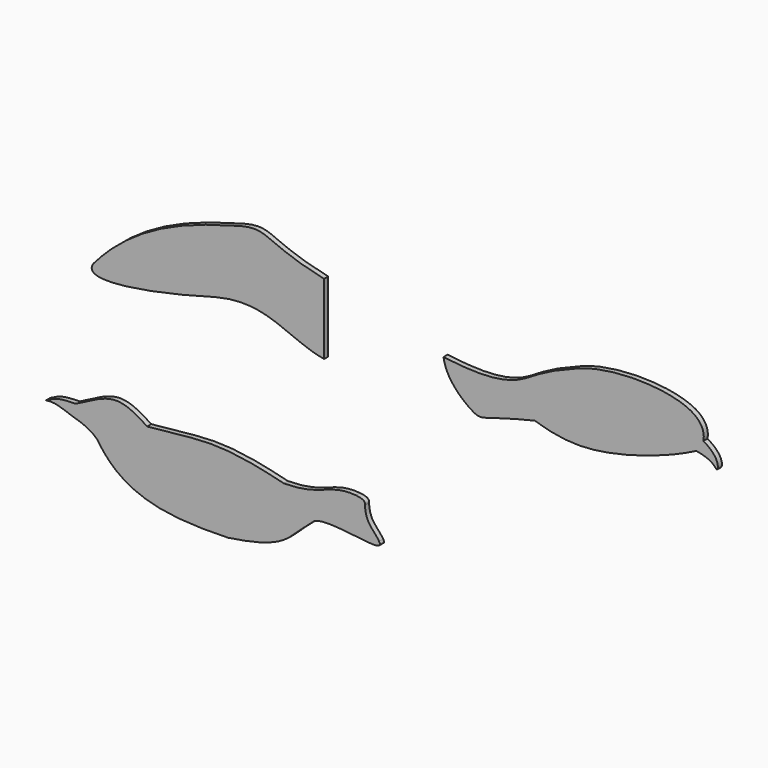
from build123d import *

# Parameters (mm, degrees)
F1_DEPTH = 2
F2_DEPTH = 2
F3_DEPTH = 2


with BuildPart() as f1:
    # F0 (on Front) → F1 (new body)
    with BuildSketch(Plane.XZ):
        with BuildLine():
            add(Edge.make_bspline(
                [(18.8231425051, 72.8964428303), (19.8808436069, 65.3788038107), (34.7370776251, 53.7829384898), (33.5673388016, 57.6980862061), (54.4126917131, 62.6002282298)],
                knots=[0, 0, 0, 0, 0.4666218102, 1, 1, 1, 1], degree=3))
            add(Edge.make_bspline(
                [(54.4126917131, 62.6002282298), (65.8990881443, 58.8808907475), (83.7409495409, 59.5425556906), (106.919003505, 67.2676650688), (117.4929710335, 72.7085880731)],
                knots=[0, 0, 0, 0, 0.4793578106, 1, 1, 1, 1], degree=3))
            add(Edge.make_bspline(
                [(117.4929710335, 72.7085880731), (124.8398352237, 71.5507546419), (125.3568491925, 65.4595539697), (126.8634894168, 73.1862400584), (120.2690540196, 77.0300564117)],
                knots=[0, 0, 0, 0, 0.4896589483, 1, 1, 1, 1], degree=3))
            add(Edge.make_bspline(
                [(120.2690540196, 77.0300564117), (120.8694055814, 79.9586893693), (117.3485005207, 90.5158551947), (83.9879186797, 91.2811061004), (70.6700533378, 85.7948111885)],
                knots=[0, 0, 0, 0, 0.3189288468, 1, 1, 1, 1], degree=3))
            add(Edge.make_bspline(
                [(70.6700533378, 85.7948111885), (57.1444968179, 80.7355256917), (50.9577782702, 74.2254984537), (36.1678127727, 70.6001524196), (18.8231425051, 72.8964428303)],
                knots=[0, 0, 0, 0, 0.4672077511, 1, 1, 1, 1], degree=3))
        make_face()
    extrude(amount=F1_DEPTH)


with BuildPart() as f2:
    # F0 (on Front) → F2 (new body)
    with BuildSketch(Plane.XZ):
        with BuildLine():
            Line((-27.8131521207, 57.0369597776), (-27.8131521207, 84.6122249882))
            add(Edge.make_bspline(
                [(-27.8131521207, 84.6122249882), (-53.150113672, 90.0835245848), (-48.4915439647, 95.9429144754), (-63.7371170591, 91.1852139324)],
                knots=[0, 0, 0, 0, 36.5203428319, 36.5203428319, 36.5203428319, 36.5203428319], degree=3))
            add(Edge.make_bspline(
                [(-63.7371170591, 91.1852139324), (-81.8316591854, 86.3216825835), (-101.997328814, 79.1684429978), (-117.8131521207, 60.6284363369)],
                knots=[0, 0, 0, 0, 62.1122711306, 62.1122711306, 62.1122711306, 62.1122711306], degree=3))
            add(Edge.make_bspline(
                [(-117.8131521207, 60.6284363369), (-123.3351490576, 52.556851388), (-95.6494464383, 57.2901753206), (-70.413042105, 64.4827900117)],
                knots=[0, 0, 0, 0, 47.5565607645, 47.5565607645, 47.5565607645, 47.5565607645], degree=3))
            add(Edge.make_bspline(
                [(-70.413042105, 64.4827900117), (-50.1600168645, 69.7521343827), (-42.0131154488, 59.518903189), (-27.8131521207, 57.0369597776)],
                knots=[0, 0, 0, 0, 43.2457051573, 43.2457051573, 43.2457051573, 43.2457051573], degree=3))
        make_face()
    extrude(amount=F2_DEPTH)


with BuildPart() as f3:
    # F0 (on Front) → F3 (new body)
    with BuildSketch(Plane.XZ):
        with BuildLine():
            add(Edge.make_bspline(
                [(-136.3399773836, 7.5616859831), (-132.7563108469, 9.5010822872), (-131.491487591, 10.0070115895), (-124.7879223996, 10.1334939151)],
                knots=[0, 0, 0, 0, 11.8348709496, 11.8348709496, 11.8348709496, 11.8348709496], degree=3))
            add(Edge.make_bspline(
                [(-136.3399773836, 7.5616859831), (-132.3765755174, 7.9657551829), (-131.4472051335, 7.2697956545), (-125.6467953898, 5.3042598891)],
                knots=[0, 0, 0, 0, 10.9288660767, 10.9288660767, 10.9288660767, 10.9288660767], degree=3))
            add(Edge.make_bspline(
                [(-116.2942753437, 0.5631746987), (-118.8781786065, 2.8976393412), (-121.3850742849, 4.1009505828), (-125.6467953898, 5.3042598891)],
                knots=[0, 0, 0, 0, 10.4855862972, 10.4855862972, 10.4855862972, 10.4855862972], degree=3))
            add(Edge.make_bspline(
                [(-65.3102159774, -16.5664108198), (-88.5488057038, -17.3047020707), (-106.3669677607, -15.2302657525), (-116.2942753437, 0.5631746987)],
                knots=[0, 0, 0, 0, 53.7847284041, 53.7847284041, 53.7847284041, 53.7847284041], degree=3))
            add(Edge.make_bspline(
                [(-32.1668527531, -0.3589733213), (-42.295246662, -8.4791668787), (-41.1147423762, -13.0325344704), (-65.3102159774, -16.5664108198)],
                knots=[0, 0, 0, 0, 36.8939501285, 36.8939501285, 36.8939501285, 36.8939501285], degree=3))
            add(Edge.make_bspline(
                [(-6.3399773836, 1.3365404737), (-2.8032097663, -3.7166448916), (-27.941406029, 3.9710293128), (-32.1668527531, -0.3589733213)],
                knots=[0, 0, 0, 0, 25.8824700981, 25.8824700981, 25.8824700981, 25.8824700981], degree=3))
            add(Edge.make_bspline(
                [(-11.8726681078, 11.9301169345), (-11.5257585385, 5.6791028992), (-8.3684088692, 4.7616981841), (-6.3399773836, 1.3365404737)],
                knots=[0, 0, 0, 0, 11.9513400454, 11.9513400454, 11.9513400454, 11.9513400454], degree=3))
            add(Edge.make_bspline(
                [(-15.372011804, 14.2489602154), (-12.6315620613, 13.9959955642), (-11.4932191958, 13.1949421256), (-11.8726681078, 11.9301169345)],
                knots=[0, 0, 0, 0, 4.1979090587, 4.1979090587, 4.1979090587, 4.1979090587], degree=3))
            add(Edge.make_bspline(
                [(-43.5130200487, 9.1956122931), (-28.4711002373, 9.2234489712), (-26.2916570953, 15.1764979148), (-15.372011804, 14.2489602154)],
                knots=[0, 0, 0, 0, 28.5911292231, 28.5911292231, 28.5911292231, 28.5911292231], degree=3))
            add(Edge.make_bspline(
                [(-96.8597552071, 11.4016806448), (-74.8993506904, 13.3069197348), (-70.4632463631, 15.8848527423), (-43.5130200487, 9.1956122931)],
                knots=[0, 0, 0, 0, 53.3923298764, 53.3923298764, 53.3923298764, 53.3923298764], degree=3))
            add(Edge.make_bspline(
                [(-124.7879223996, 10.1334939151), (-111.1617562199, 17.4182929708), (-108.3413360205, 18.9223667122), (-96.8597552071, 11.4016806448)],
                knots=[0, 0, 0, 0, 27.9569458331, 27.9569458331, 27.9569458331, 27.9569458331], degree=3))
        make_face()
    extrude(amount=F3_DEPTH)


solid = Compound([f1.part, f2.part, f3.part])
